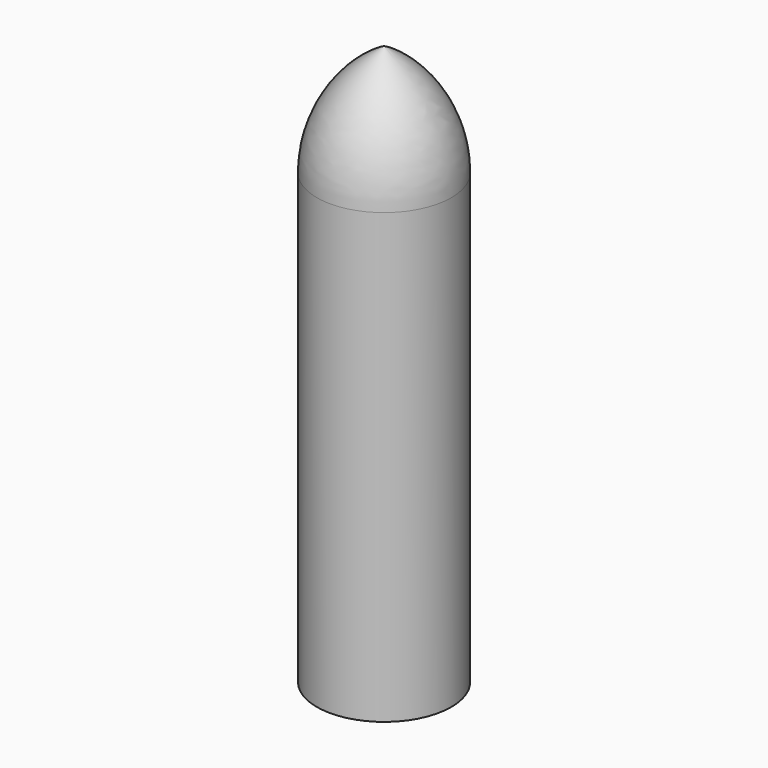
from build123d import *

# Parameters (mm, degrees)
F1_FACE_R = 38.1
F2_DEPTH  = 254


with BuildPart() as f1:
    # F0 (on Front) → F1 (revolve)
    with BuildSketch(Plane.XZ):
        with BuildLine():
            Line((0, 43.774469), (0, -19.45532))
            Line((0, -19.45532), (38.1, -19.45532))
            ThreePointArc((38.1, -19.45532), (27.83888, 17.455438), (0, 43.774469))
        make_face()
    revolve(axis=Axis((0, 0, 12.159574), (0, 0, -1)))

    # F1_face (on face) → F2 (join)
    with BuildSketch(Plane(origin=(0, 0, -19.45532), x_dir=(1, 0, 0), z_dir=(0, 0, -1))):
        Circle(F1_FACE_R)
    extrude(amount=F2_DEPTH)


solid = f1.part
